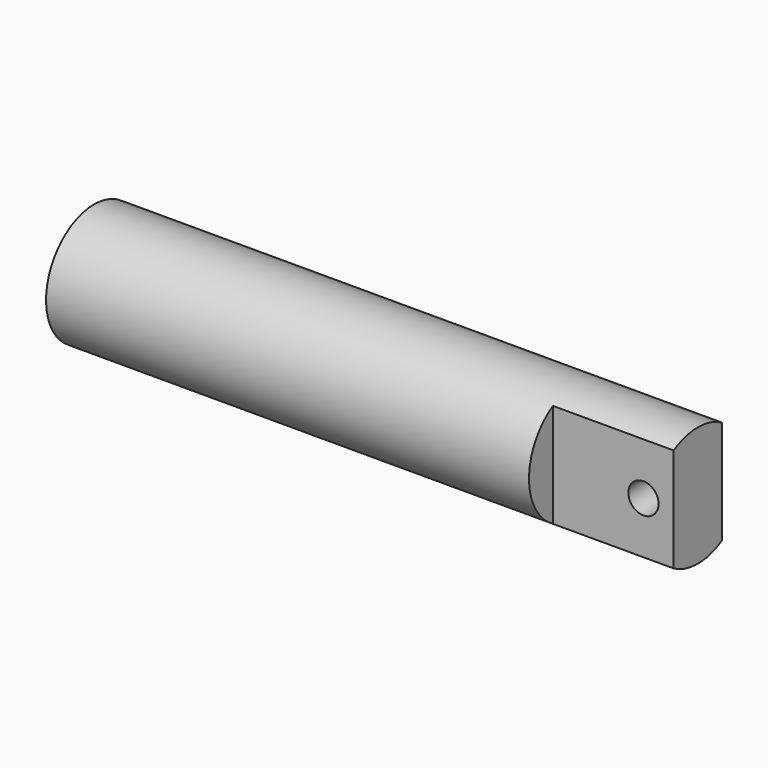
from build123d import *

# Parameters (mm, degrees)
F2_W     = 15.501474
F2_H     = 37.166182
F2_W_2   = 14.94118
F2_H_2   = 45.0103
F3_DEPTH = 25.4
F4_R     = 3.175
F5_DEPTH = 25.4


with BuildPart() as f1:
    # F0 (on Front) → F1 (revolve)
    with BuildSketch(Plane.XZ):
        with BuildLine():
            Line((0, 12.6365), (0, 10.998523))
            ThreePointArc((0, 10.998523), (4.648523, 6.35), (6.35, 0))
            Line((6.35, 0), (127, 0))
            Line((127, 0), (127, 12.6365))
            Line((127, 12.6365), (0, 12.6365))
        make_face()
    revolve(axis=Axis((66.675, 0, 0), (-1, 0, 0)))

    # F2 (on face) → F3 (cut)
    with BuildSketch(Plane.YZ.offset(127)):
        with Locations((-14.100737, -3.776869)):
            Rectangle(F2_W, F2_H)
        with Locations((13.82059, -3.77687)):
            Rectangle(F2_W_2, F2_H_2)
    extrude(amount=-F3_DEPTH, mode=Mode.SUBTRACT)

    # F4 (on face) → F5 (cut)
    with BuildSketch(Plane(origin=(0, 6.35, 0), x_dir=(-1, 0, 0), z_dir=(0, 1, 0))):
        with Locations((-120.65, 0)):
            Circle(F4_R)
    extrude(amount=-F5_DEPTH, mode=Mode.SUBTRACT)


solid = f1.part
